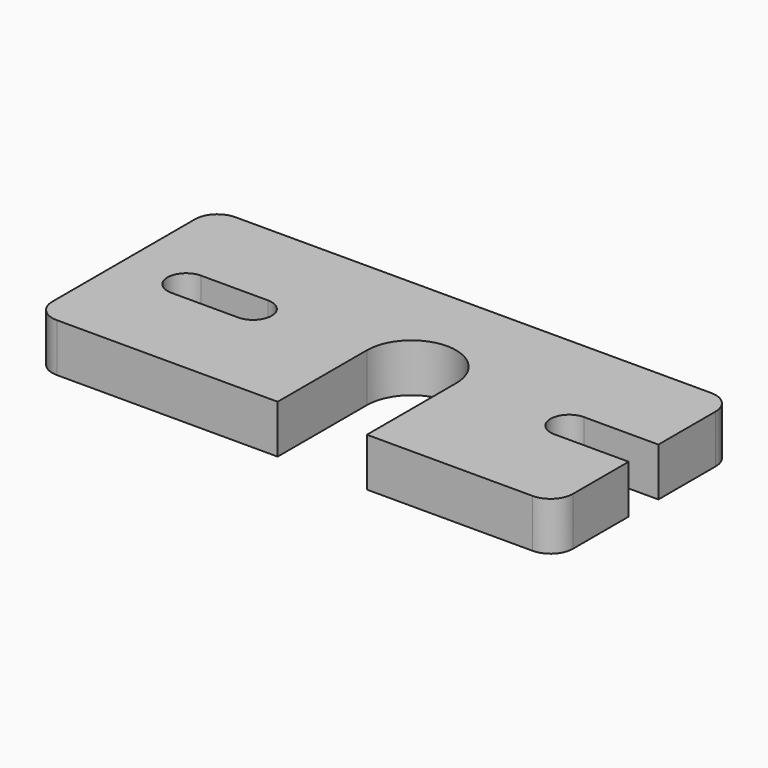
from build123d import *

# Parameters (mm, degrees)
F1_DEPTH = 6.5


with BuildPart() as f1:
    # F0 (on Top) → F1 (new body)
    with BuildSketch(Plane.XY):
        with BuildLine():
            Line((28.3, 15.132028), (-35.7, 15.132028))
            ThreePointArc((-35.7, 15.132028), (-37.82132, 14.253349), (-38.7, 12.132028))
            Line((-38.7, 12.132028), (-38.7, -11.867972))
            ThreePointArc((-38.7, -11.867972), (-37.82132, -13.989292), (-35.7, -14.867972))
            Line((-35.7, -14.867972), (-6, -14.867972))
            Line((-6, -14.867972), (-6, 0.132028))
            ThreePointArc((-6, 0.132028), (0, 6.132028), (6, 0.132028))
            Line((6, 0.132028), (6, -14.867972))
            Line((6, -14.867972), (28.3, -14.867972))
            ThreePointArc((28.3, -14.867972), (30.42132, -13.989292), (31.3, -11.867972))
            Line((31.3, -11.867972), (31.3, -2.5))
            Line((31.3, -2.5), (21.3, -2.5))
            ThreePointArc((21.3, -2.5), (18.8, 0), (21.3, 2.5))
            Line((21.3, 2.5), (31.3, 2.5))
            Line((31.3, 2.5), (31.3, 12.132028))
            ThreePointArc((31.3, 12.132028), (30.42132, 14.253349), (28.3, 15.132028))
        make_face()
        with BuildLine():
            ThreePointArc((-30.2, -2.5), (-32.7, 0), (-30.2, 2.5))
            Line((-30.2, 2.5), (-21.2, 2.5))
            ThreePointArc((-21.2, 2.5), (-18.7, 0), (-21.2, -2.5))
            Line((-21.2, -2.5), (-30.2, -2.5))
        make_face(mode=Mode.SUBTRACT)
    extrude(amount=F1_DEPTH)


solid = f1.part
